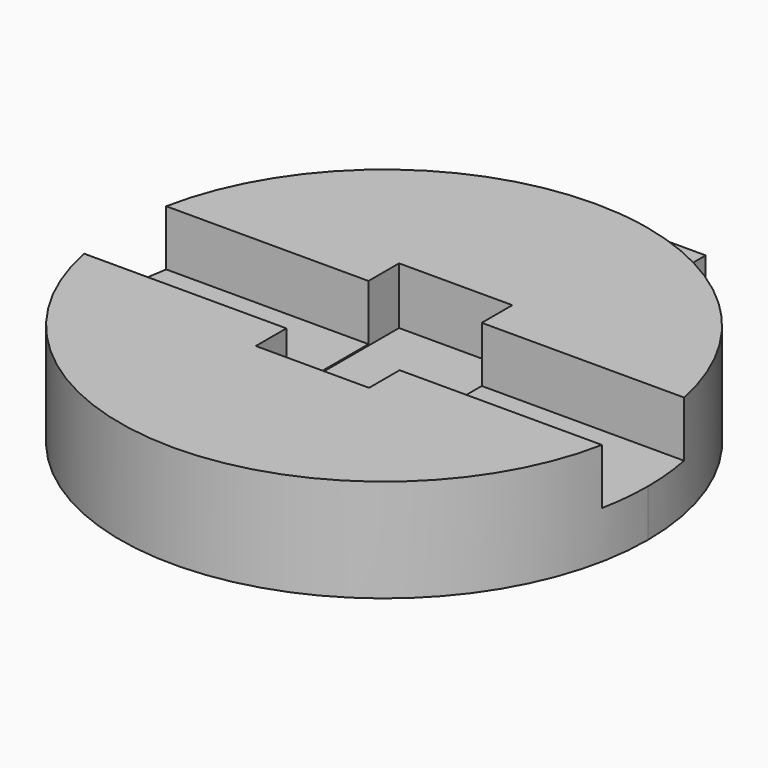
from build123d import *

# Parameters (mm, degrees)
F1_DEPTH = 7.67
F2_DEPTH = 3.63
F4_DEPTH = 4.25
F5_DEPTH = 4.15


with BuildPart() as f1:
    # F0 (on Top) → F1 (new body)
    with BuildSketch(Plane.XY):
        with BuildLine():
            ThreePointArc((1.8, 19.6125731356), (-14.5489522819, -13.27482627), (19.695, 0))
            ThreePointArc((19.695, 0), (15.3557281657, 12.3326654662), (4.25, 19.2309782642))
            ThreePointArc((4.25, 19.2309782642), (3.0310111616, 19.4603698921), (1.8, 19.6125731356))
        make_face()
    extrude(amount=F1_DEPTH)

    # F0 (on Top) → F2 (join)
    with BuildSketch(Plane.XY):
        with BuildLine():
            ThreePointArc((1.8, 19.6125731356), (3.0310111616, 19.4603698921), (4.25, 19.2309782642))
            Line((4.25, 19.2309782642), (4.25, 24.6809782642))
            Line((4.25, 24.6809782642), (-4.03, 24.6809782642))
            Line((-4.03, 24.6809782642), (-4.03, 20.3809782642))
            Line((-4.03, 20.3809782642), (-1.58, 20.3809782642))
            Line((-1.58, 20.3809782642), (-1.58, 22.2309782642))
            Line((-1.58, 22.2309782642), (1.8, 22.2309782642))
            Line((1.8, 22.2309782642), (1.8, 19.6125731356))
        make_face()
    extrude(amount=F2_DEPTH)

    # F3 (on face) → F4 (cut)
    with BuildSketch(Plane.XY.offset(7.67)):
        Polygon((4.2250477709, 3.83), (4.2250477709, 6.68), (-4.2250477709, 6.68), (-4.2250477709, 3.83), (-4.2250477709, -3.83), (-4.2250477709, -6.68), (4.2250477709, -6.68), (4.2250477709, -3.83), align=None)
    extrude(amount=-F4_DEPTH, mode=Mode.SUBTRACT)

    # F3 (on face) → F5 (cut)
    with BuildSketch(Plane.XY.offset(7.67)):
        with BuildLine():
            Line((-4.2250477709, -3.83), (-4.2250477709, 3.83))
            Line((-4.2250477709, 3.83), (-19.3190094208, 3.83))
            ThreePointArc((-19.3190094208, 3.83), (-19.695, 0), (-19.3190094208, -3.83))
            Line((-19.3190094208, -3.83), (-4.2250477709, -3.83))
        make_face()
        with BuildLine():
            Line((19.3190094208, 3.83), (4.2250477709, 3.83))
            Line((4.2250477709, 3.83), (4.2250477709, -3.83))
            Line((4.2250477709, -3.83), (19.3190094208, -3.83))
            ThreePointArc((19.3190094208, -3.83), (19.6007769686, -1.9242056098), (19.695, 0))
            ThreePointArc((19.695, 0), (19.6007769686, 1.9242056098), (19.3190094208, 3.83))
        make_face()
    extrude(amount=-F5_DEPTH, mode=Mode.SUBTRACT)


solid = f1.part
